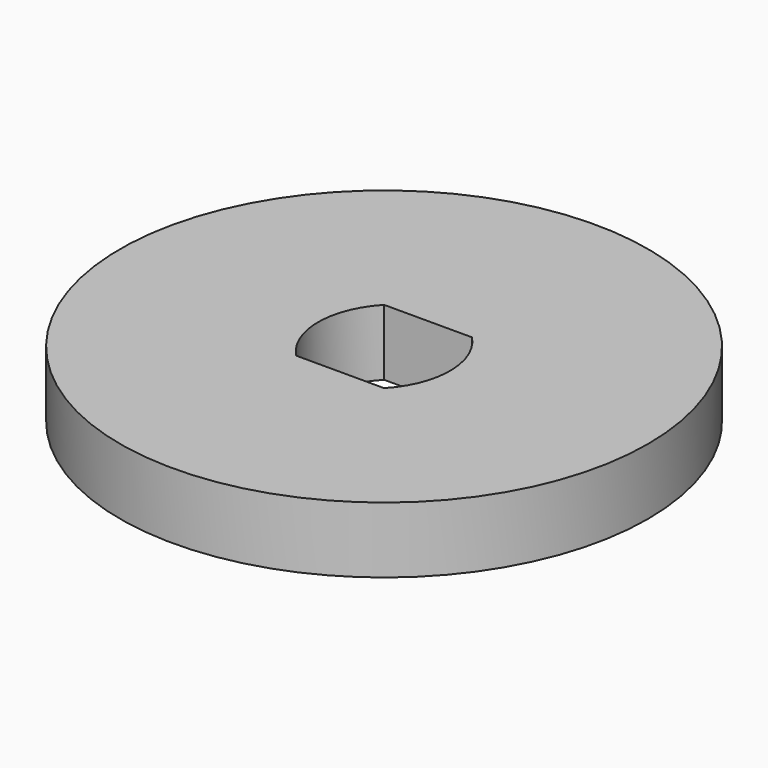
from build123d import *

# Parameters (mm, degrees)
F0_R     = 12
F1_DEPTH = 3


with BuildPart() as f1:
    # F0 (on Top) → F1 (new body)
    with BuildSketch(Plane.XY):
        with Locations((2, -2.5)):
            Circle(F0_R)
        with BuildLine():
            ThreePointArc((0, -5), (-1, -2.5), (0, 0))
            Line((0, 0), (4, 0))
            ThreePointArc((4, 0), (5, -2.5), (4, -5))
            Line((4, -5), (0, -5))
        make_face(mode=Mode.SUBTRACT)
    extrude(amount=F1_DEPTH)


solid = f1.part
